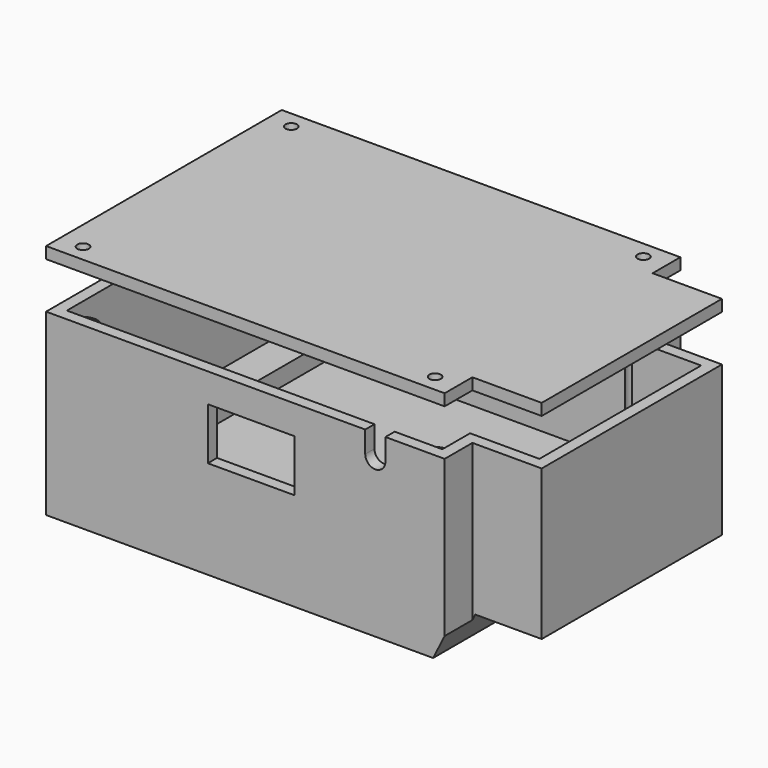
from build123d import *

# Parameters (mm, degrees)
SKETCH_W             = 75
SKETCH_H             = 39
PAD_DEPTH            = 8
SKETCH001_W          = 6
SKETCH001_H          = 42
PAD001_DEPTH         = 3
PAD002_DEPTH         = 8
SKETCH003_R          = 1.6
POCKET_DEPTH         = 8.001
POCKET001_DEPTH      = 45.001
POCKET001_DEPTH_BACK = 6.001
SKETCH005_W          = 8
SKETCH005_H          = 12
POCKET002_DEPTH      = 8.001
SKETCH006_R          = 0.825
POCKET003_DEPTH      = 5
PAD003_DEPTH         = 23
SKETCH008_R          = 2.5
PAD004_DEPTH         = 23
POCKET004_DEPTH      = 2
SKETCH010_R          = 0.825
POCKET005_DEPTH      = 20
SKETCH011_W          = 15
SKETCH011_H          = 9
POCKET006_DEPTH      = 2
POCKET007_DEPTH      = 2
SKETCH013_W          = 81
SKETCH013_H          = 51
PAD005_DEPTH         = 2
SKETCH014_W          = 12
SKETCH014_H          = 6
POCKET008_DEPTH      = 2
PAD006_DEPTH         = 1.5
SKETCH016_R          = 1
POCKET009_DEPTH      = 3.501


with BuildPart() as obj1:
    # Sketch → Pad (new body)
    with BuildSketch(Plane.XY):
        Rectangle(SKETCH_W, SKETCH_H)
    extrude(amount=PAD_DEPTH)

    # Sketch001 (on Face6 of Pad) → Pad001 (join)
    with BuildSketch(Plane.XY.offset(8)):
        with Locations((-35.5, 0)):
            Rectangle(SKETCH001_W, SKETCH001_H)
        with Locations((20.5, 0)):
            Rectangle(SKETCH001_W, SKETCH001_H)
    extrude(amount=PAD001_DEPTH)

    # Sketch002 → Pad002 (join)
    with BuildSketch(Plane.XY):
        Polygon((25.5, 19.5), (-37.5, 19.5), (-37.5, -19.5), (25.5, -19.5), (25.5, -25.5), (-43.5, -25.5), (-43.5, 25.5), (25.5, 25.5), align=None)
    extrude(amount=PAD002_DEPTH)

    # Sketch003 (on Face4 of Pad002) → Pocket (cut, through all)
    with BuildSketch(Plane.XY.offset(8)):
        with Locations((28.5, 12.5)):
            Circle(SKETCH003_R)
        with Locations((28.5, -12.5)):
            Circle(SKETCH003_R)
    extrude(amount=-POCKET_DEPTH, mode=Mode.SUBTRACT)

    # Sketch004 (on Face7 of Pocket) → Pocket001 (cut, two sides)
    with BuildSketch(Plane.XZ.offset(19.5)) as pocket001_sk:
        Polygon((37.5, 5), (26, 5), (23.5, 0), (37.5, 0), align=None)
    extrude(amount=-POCKET001_DEPTH, mode=Mode.SUBTRACT)
    extrude(pocket001_sk.sketch, amount=POCKET001_DEPTH_BACK, mode=Mode.SUBTRACT)

    # Sketch005 (on Face5 of Pocket001) → Pocket002 (cut, through all)
    with BuildSketch(Plane.XY.offset(8)):
        with Locations((31.5, 0)):
            Rectangle(SKETCH005_W, SKETCH005_H)
    extrude(amount=-POCKET002_DEPTH, mode=Mode.SUBTRACT)

    # Sketch006 (on Face31 of Pocket002) → Pocket003 (cut)
    with BuildSketch(Plane.XY.offset(11)):
        with Locations((-35.5, 18)):
            Circle(SKETCH006_R)
        with Locations((-35.5, -18)):
            Circle(SKETCH006_R)
        with Locations((20.5, 18)):
            Circle(SKETCH006_R)
        with Locations((20.5, -18)):
            Circle(SKETCH006_R)
    extrude(amount=-POCKET003_DEPTH, mode=Mode.SUBTRACT)

    # Sketch007 (on Face24 of Pocket003) → Pad003 (join)
    with BuildSketch(Plane.XY.offset(8)):
        Polygon((-43.5, 25.5), (25.5, 25.5), (25.5, 19.5), (37.5, 19.5), (37.5, -19.5), (25.5, -19.5), (25.5, -25.5), (-43.5, -25.5), align=None)
        Polygon((-41.5, 23.5), (23.5, 23.5), (23.5, 17.5), (35.5, 17.5), (35.5, -17.5), (23.5, -17.5), (23.5, -23.5), (-41.5, -23.5), align=None, mode=Mode.SUBTRACT)
    extrude(amount=PAD003_DEPTH)

    # Sketch008 (on Face21 of Pad003) → Pad004 (join)
    with BuildSketch(Plane.XY.offset(31)):
        with Locations((-39.4791192927, 22.5280446946)):
            Circle(SKETCH008_R)
        with Locations((-39.4791192927, -22.5280446946)):
            Circle(SKETCH008_R)
        with Locations((21.4791192927, -22.5280446946)):
            Circle(SKETCH008_R)
        with Locations((21.4791192927, 22.5280446946)):
            Circle(SKETCH008_R)
    extrude(amount=-PAD004_DEPTH)

    # Sketch009 (on Face42 of Pad004) → Pocket004 (cut)
    with BuildSketch(Plane.XY.offset(31)):
        with BuildLine():
            ThreePointArc((-41.5, 21.0562970373), (-38.2491336668, 20.3515485746), (-37.1757949811, 23.5))
            Line((-41.5, 23.5), (-37.1757949811, 23.5))
            Line((-41.5, 21.0562970373), (-41.5, 23.5))
        make_face()
        with BuildLine():
            ThreePointArc((19.1757949811, 23.5), (20.2491336668, 20.3515485746), (23.5, 21.0562970373))
            Line((23.5, 23.5), (23.5, 21.0562970373))
            Line((19.1757949811, 23.5), (23.5, 23.5))
        make_face()
        with BuildLine():
            ThreePointArc((23.5, -21.0562970373), (20.2491336668, -20.3515485746), (19.1757949811, -23.5))
            Line((19.1757949811, -23.5), (23.5, -23.5))
            Line((23.5, -23.5), (23.5, -21.0562970373))
        make_face()
        with BuildLine():
            ThreePointArc((-37.1757949811, -23.5), (-38.2491336668, -20.3515485746), (-41.5, -21.0562970373))
            Line((-41.5, -23.5), (-41.5, -21.0562970373))
            Line((-41.5, -23.5), (-37.1757949811, -23.5))
        make_face()
    extrude(amount=-POCKET004_DEPTH, mode=Mode.SUBTRACT)

    # Sketch010 (on Face64 of Pocket004) → Pocket005 (cut)
    with BuildSketch(Plane.XY.offset(29)):
        with Locations((-39.4791192927, -22.5280446946)):
            Circle(SKETCH010_R)
        with Locations((21.4791192927, -22.5280446946)):
            Circle(SKETCH010_R)
        with Locations((21.4791192927, 22.5280446946)):
            Circle(SKETCH010_R)
        with Locations((-39.4791192927, 22.5280446946)):
            Circle(SKETCH010_R)
    extrude(amount=-POCKET005_DEPTH, mode=Mode.SUBTRACT)

    # Sketch011 (on Face27 of Pocket005) → Pocket006 (cut)
    with BuildSketch(Plane.XZ.offset(25.5)):
        with Locations((-8, 21.5)):
            Rectangle(SKETCH011_W, SKETCH011_H)
    extrude(amount=-POCKET006_DEPTH, mode=Mode.SUBTRACT)

    # Sketch012 (on Face27 of Pocket006) → Pocket007 (cut)
    with BuildSketch(Plane.XZ.offset(25.5)):
        with BuildLine():
            ThreePointArc((11.75, 27.25), (13.5, 25.5), (15.25, 27.25))
            Line((15.25, 31), (15.25, 27.25))
            Line((11.75, 31), (15.25, 31))
            Line((11.75, 27.25), (11.75, 31))
        make_face()
    extrude(amount=-POCKET007_DEPTH, mode=Mode.SUBTRACT)


with BuildPart() as deckel:
    # Sketch013 → Pad005 (new body)
    with BuildSketch(Plane.XY):
        with Locations((-3, 0)):
            Rectangle(SKETCH013_W, SKETCH013_H)
    extrude(amount=PAD005_DEPTH)

    # Sketch014 (on Face6 of Pad005) → Pocket008 (cut)
    with BuildSketch(Plane.XY.offset(2)):
        with Locations((31.5, 22.5)):
            Rectangle(SKETCH014_W, SKETCH014_H)
        with Locations((31.5, -22.5)):
            Rectangle(SKETCH014_W, SKETCH014_H)
    extrude(amount=-POCKET008_DEPTH, mode=Mode.SUBTRACT)

    # Sketch015 (on Face4 of Pocket008) → Pad006 (join)
    with BuildSketch(Plane(origin=(0, 0, 0), x_dir=(1, 0, 0), z_dir=(0, 0, -1))):
        Polygon((23, 23), (-41, 23), (-41, -23), (23, -23), (23, -17), (35, -17), (35, 17), (23, 17), align=None)
    extrude(amount=PAD006_DEPTH)

    # Sketch016 (on Face5 of Pad006) → Pocket009 (cut, through all)
    with BuildSketch(Plane.XY.offset(2)):
        with Locations((-39.4791192927, 22.5280446946)):
            Circle(SKETCH016_R)
        with Locations((21.4791192927, 22.5280446946)):
            Circle(SKETCH016_R)
        with Locations((21.4791192927, -22.5280446946)):
            Circle(SKETCH016_R)
        with Locations((-39.4791192927, -22.5280446946)):
            Circle(SKETCH016_R)
    extrude(amount=-POCKET009_DEPTH, mode=Mode.SUBTRACT)


with BuildPart() as deckel_1:
    # Body001 placement: moved
    add(deckel.part.moved(Location((0, 0, 39))))


solid = Compound([obj1.part, deckel_1.part])
